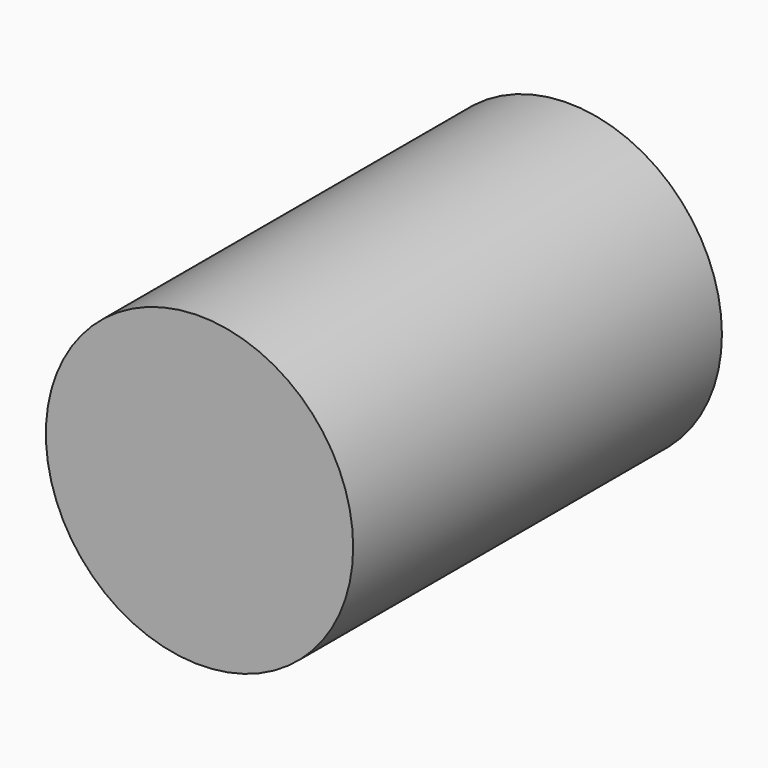
from build123d import *

# Parameters (mm, degrees)
F0_R     = 1
F0_R_2   = 0.875
F1_DEPTH = 3


with BuildPart() as f1:
    # F0 (on Front) → F1 (new body)
    with BuildSketch(Plane.XZ):
        Circle(F0_R)
        Circle(F0_R_2, mode=Mode.SUBTRACT)
        Circle(F0_R_2)
    extrude(amount=F1_DEPTH)

    # F2 (on Right) → F3 (revolve, cut)
    with BuildSketch(Plane.YZ):
        with BuildLine():
            Line((0, 0), (0, 0.75))
            ThreePointArc((0, 0.75), (-0.53033, 0.53033), (-0.75, 0))
            Line((-0.75, 0), (0, 0))
        make_face()
    revolve(axis=Axis((0, -0.375, 0), (0, 1, 0)), mode=Mode.SUBTRACT)


solid = f1.part
